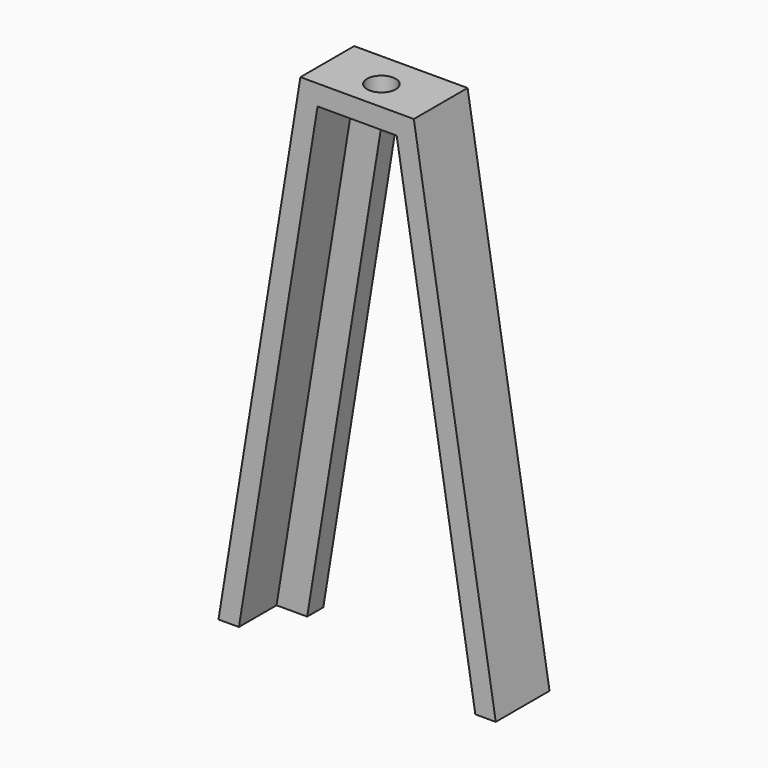
from build123d import *

# Parameters (mm, degrees)
F1_DEPTH = 1.2
F2_DEPTH = 4
F3_R     = 0.85
F4_DEPTH = 1.5


with BuildPart() as f1:
    # F0 (on Front) → F1 (new body)
    with BuildSketch(Plane.XZ):
        Polygon((-2.354259, 13.55), (-7.034259, -15.25), (-5.210649, -15.25), (-0.823149, 11.75), (0.823149, 11.75), (5.210649, -15.25), (7.034259, -15.25), (2.354259, 13.55), align=None)
    extrude(amount=F1_DEPTH)

    # F0 (on Front) → F2 (join)
    with BuildSketch(Plane.XZ):
        Polygon((0, 14.75), (-3.375, 14.75), (-8.25, -15.25), (-7.034259, -15.25), (-2.354259, 13.55), (2.354259, 13.55), (7.034259, -15.25), (8.25, -15.25), (3.375, 14.75), align=None)
    extrude(amount=F2_DEPTH)

    # F3 (on face) → F4 (cut)
    with BuildSketch(Plane.XY.offset(14.75)):
        with Locations((0, -2.191013)):
            Circle(F3_R)
    extrude(amount=-F4_DEPTH, mode=Mode.SUBTRACT)


solid = f1.part
